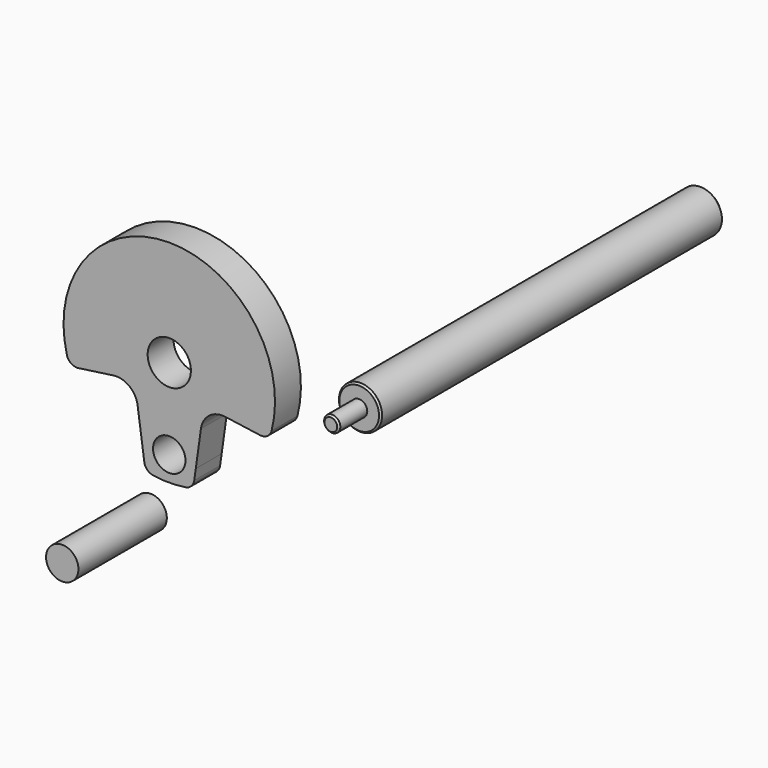
from build123d import *

# Parameters (mm, degrees)
F0_R     = 6.35
F1_DEPTH = 127
F2_R     = 2.38125
F3_DEPTH = 10.414
F4_SIZE  = 0.508
F5_SIZE  = 1.524
F6_R     = 4.7752
F6_R_2   = 6.3627
F7_DEPTH = 9.525
F8_R     = 4.7625
F9_DEPTH = 32.512


with BuildPart() as f1:
    # F0 (on Front) → F1 (new body)
    with BuildSketch(Plane.XZ):
        Circle(F0_R)
    extrude(amount=-F1_DEPTH)

    # F2 (on face) → F3 (join)
    with BuildSketch(Plane.XZ):
        Circle(F2_R)
    extrude(amount=F3_DEPTH)

    # F4
    f4_edges = [f1.edges().sort_by_distance(p)[0] for p in [
        (-2.38125, -10.414, 0),
        (-6.35, 0, 0),
    ]]
    chamfer(f4_edges, length=F4_SIZE)

    # F5
    f5_edges = [f1.edges().sort_by_distance(p)[0] for p in [
        (-6.35, 127, 0),
    ]]
    chamfer(f5_edges, length=F5_SIZE)


with BuildPart() as f7:
    # F6 (on Front) → F7 (new body)
    with BuildSketch(Plane.XZ):
        with BuildLine():
            ThreePointArc((-21.521355, -10.11931), (-19.40721, -9.637583), (-18.148319, -7.87212))
            ThreePointArc((-18.148319, -7.87212), (-48.251025, 31.115), (-78.353732, -7.87212))
            ThreePointArc((-78.353732, -7.87212), (-77.094841, -9.637583), (-74.980696, -10.11931))
            Line((-74.980696, -10.11931), (-64.743257, -8.680532))
            ThreePointArc((-64.743257, -8.680532), (-60.037982, -9.897399), (-57.571306, -14.084985))
            Line((-57.571306, -14.084985), (-56.048396, -24.921049))
            Line((-56.048396, -24.921049), (-55.593745, -28.156062))
            ThreePointArc((-55.593745, -28.156062), (-54.746841, -29.87083), (-53.045024, -30.743468))
            ThreePointArc((-53.045024, -30.743468), (-48.251025, -31.115), (-43.457027, -30.743468))
            ThreePointArc((-43.457027, -30.743468), (-41.75521, -29.87083), (-40.908306, -28.156062))
            Line((-40.908306, -28.156062), (-40.453655, -24.921049))
            Line((-40.453655, -24.921049), (-38.930745, -14.084985))
            ThreePointArc((-38.930745, -14.084985), (-36.464068, -9.897399), (-31.758794, -8.680532))
            Line((-31.758794, -8.680532), (-21.521355, -10.11931))
        make_face()
        with Locations((-48.251025, -23.8252)):
            Circle(F6_R, mode=Mode.SUBTRACT)
        with Locations((-48.251025, 0)):
            Circle(F6_R_2, mode=Mode.SUBTRACT)
    extrude(amount=F7_DEPTH)


with BuildPart() as f9:
    # F8 (on Front) → F9 (new body)
    with BuildSketch(Plane.XZ):
        with Locations((-61.353065, -46.861045)):
            Circle(F8_R)
    extrude(amount=F9_DEPTH)


solid = Compound([f1.part, f7.part, f9.part])
